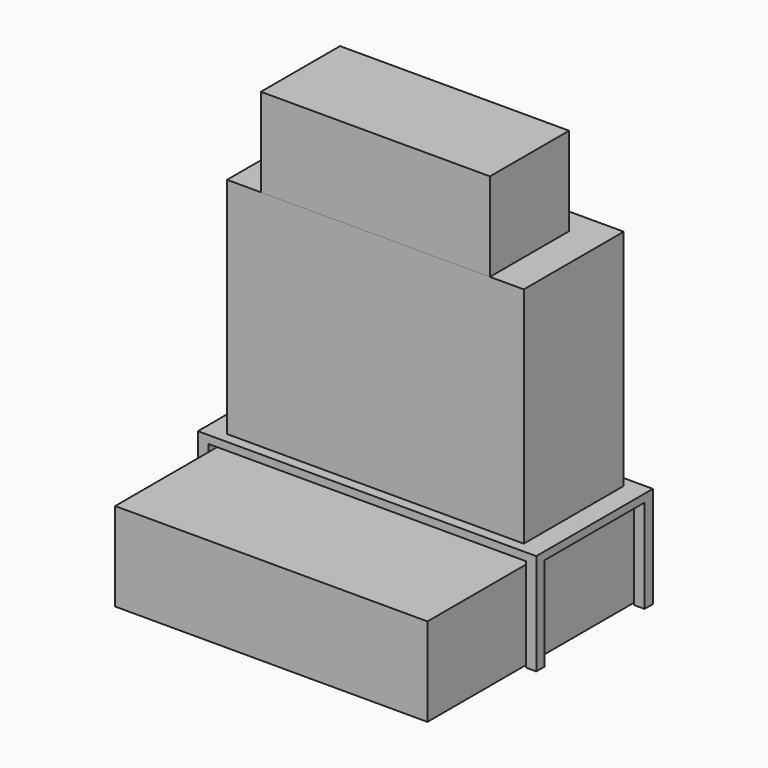
from build123d import *

# Parameters (mm, degrees)
F0_W     = 723.9
F0_H     = 304.8
F1_DEPTH = 546.1
F2_W     = 558.8
F2_H     = 241.3
F3_DEPTH = 215.9
F4_W     = 825.5
F4_H     = 355.6
F5_DEPTH = 19.05
F6_W     = 25.4
F6_H     = 25.4
F7_DEPTH = 228.6
F8_W     = 762
F8_H     = 647.7
F9_DEPTH = 215.9


with BuildPart() as f1:
    # F0 (on Top) → F1 (new body)
    with BuildSketch(Plane.XY):
        Rectangle(F0_W, F0_H)
    extrude(amount=F1_DEPTH)


with BuildPart() as f3:
    # F2 (on face) → F3 (new body)
    with BuildSketch(Plane.XY.offset(546.1)):
        with Locations((0, -31.75)):
            Rectangle(F2_W, F2_H)
    extrude(amount=F3_DEPTH)


with BuildPart() as f5:
    # F4 (on face) → F5 (new body)
    with BuildSketch(Plane(origin=(0, 0, 0), x_dir=(1, 0, 0), z_dir=(0, 0, -1))):
        Rectangle(F4_W, F4_H)
    extrude(amount=F5_DEPTH)

    # F6 (on face) → F7 (join)
    with BuildSketch(Plane(origin=(0, 0, -19.05), x_dir=(1, 0, 0), z_dir=(0, 0, -1))):
        with Locations((-400.05, 165.1)):
            Rectangle(F6_W, F6_H)
        with Locations((-400.05, -165.1)):
            Rectangle(F6_W, F6_H)
        with Locations((400.05, -165.1)):
            Rectangle(F6_W, F6_H)
        with Locations((400.05, 165.1)):
            Rectangle(F6_W, F6_H)
    extrude(amount=F7_DEPTH)


with BuildPart() as f9:
    # F8 (on face) → F9 (new body)
    with BuildSketch(Plane(origin=(0, 0, -247.65), x_dir=(1, 0, 0), z_dir=(0, 0, -1))):
        with Locations((0, 146.05)):
            Rectangle(F8_W, F8_H)
    extrude(amount=-F9_DEPTH)


solid = Compound([f1.part, f3.part, f5.part, f9.part])
